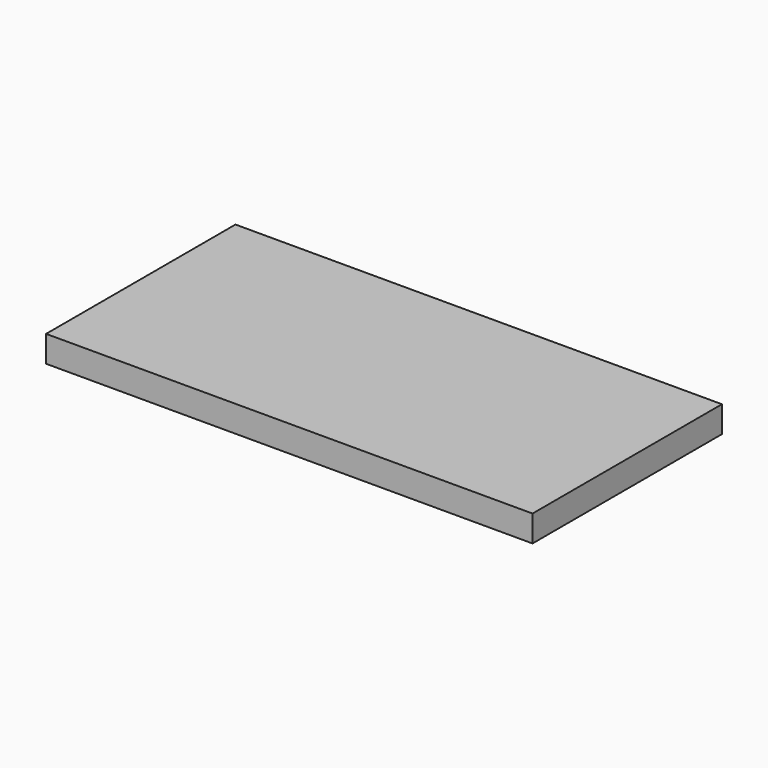
from build123d import *

# Parameters (mm, degrees)
F0_W      = 150
F0_H      = 73
F1_DEPTH  = 8.127
F3_R      = 1.25
F4_DEPTH  = 5
F5_R      = 1.25
F6_DEPTH  = 5
F7_R      = 1.25
F8_DEPTH  = 5
F9_R      = 1.25
F10_DEPTH = 5
F11_R     = 1.25
F12_DEPTH = 5
F13_R     = 1.25
F14_DEPTH = 5
F15_R     = 1.25
F16_DEPTH = 5
F17_R     = 1.25
F18_DEPTH = 5
F19_R     = 1.25
F20_DEPTH = 5
F21_R     = 1.25
F22_DEPTH = 5
F23_R     = 1.25
F24_DEPTH = 5
F25_R     = 1.25
F26_DEPTH = 5
F27_R     = 1.25
F28_DEPTH = 5
F29_R     = 1.25
F30_DEPTH = 5
F31_R     = 1.25
F32_DEPTH = 5
F33_R     = 1.25
F34_DEPTH = 5
F35_R     = 1.25
F36_DEPTH = 5
F37_R     = 1.25
F38_DEPTH = 5
F39_R     = 1.25
F40_DEPTH = 5
F41_R     = 1.25
F42_DEPTH = 5
F43_R     = 1.25
F44_DEPTH = 5
F45_R     = 1.25
F46_DEPTH = 5
F47_R     = 1.25
F48_DEPTH = 5
F2_W      = 136
F2_H      = 63
F49_DEPTH = 5.127
F50_W     = 2.5
F50_H     = 63
F51_DEPTH = 4.873
F52_W     = 6.5
F52_H     = 0.623
F53_DEPTH = 2.5
F54_W     = 2
F54_H     = 63
F55_DEPTH = 0.254
F56_W     = 2
F56_H     = 63
F57_DEPTH = 0.254
F58_R     = 2.05
F59_DEPTH = 5
F60_R     = 2.05
F61_DEPTH = 5
F62_W     = 4.1
F62_H     = 2.304
F63_DEPTH = 5
F64_W     = 4.1
F64_H     = 2.304
F65_DEPTH = 5
F66_R     = 1.25
F67_DEPTH = 2.5


with BuildPart() as f1:
    # F0 (on Top) → F1 (new body)
    with BuildSketch(Plane.XY):
        with Locations((75, 36.5)):
            Rectangle(F0_W, F0_H)
    extrude(amount=F1_DEPTH)

    # F3 (on face) → F4 (cut)
    with BuildSketch(Plane(origin=(0, 0, 0), x_dir=(1, 0, 0), z_dir=(0, 0, -1))):
        with Locations((2.5, -2.5)):
            Circle(F3_R)
    extrude(amount=-F4_DEPTH, mode=Mode.SUBTRACT)

    # F5 (on face) → F6 (cut)
    with BuildSketch(Plane(origin=(0, 0, 0), x_dir=(1, 0, 0), z_dir=(0, 0, -1))):
        with Locations((2.5, -22)):
            Circle(F5_R)
    extrude(amount=-F6_DEPTH, mode=Mode.SUBTRACT)

    # F7 (on face) → F8 (cut)
    with BuildSketch(Plane(origin=(0, 0, 0), x_dir=(1, 0, 0), z_dir=(0, 0, -1))):
        with Locations((147.5, -2.5)):
            Circle(F7_R)
    extrude(amount=-F8_DEPTH, mode=Mode.SUBTRACT)

    # F9 (on face) → F10 (cut)
    with BuildSketch(Plane(origin=(0, 0, 0), x_dir=(1, 0, 0), z_dir=(0, 0, -1))):
        with Locations((147.5, -22)):
            Circle(F9_R)
    extrude(amount=-F10_DEPTH, mode=Mode.SUBTRACT)

    # F11 (on face) → F12 (cut)
    with BuildSketch(Plane(origin=(0, 0, 0), x_dir=(1, 0, 0), z_dir=(0, 0, -1))):
        with Locations((2.5, -38.5)):
            Circle(F11_R)
    extrude(amount=-F12_DEPTH, mode=Mode.SUBTRACT)

    # F13 (on face) → F14 (cut)
    with BuildSketch(Plane(origin=(0, 0, 0), x_dir=(1, 0, 0), z_dir=(0, 0, -1))):
        with Locations((147.5, -38.5)):
            Circle(F13_R)
    extrude(amount=-F14_DEPTH, mode=Mode.SUBTRACT)

    # F15 (on face) → F16 (cut)
    with BuildSketch(Plane(origin=(0, 0, 0), x_dir=(1, 0, 0), z_dir=(0, 0, -1))):
        with Locations((2.5, -55)):
            Circle(F15_R)
    extrude(amount=-F16_DEPTH, mode=Mode.SUBTRACT)

    # F17 (on face) → F18 (cut)
    with BuildSketch(Plane(origin=(0, 0, 0), x_dir=(1, 0, 0), z_dir=(0, 0, -1))):
        with Locations((147.5, -55)):
            Circle(F17_R)
    extrude(amount=-F18_DEPTH, mode=Mode.SUBTRACT)

    # F19 (on face) → F20 (cut)
    with BuildSketch(Plane(origin=(0, 0, 0), x_dir=(1, 0, 0), z_dir=(0, 0, -1))):
        with Locations((2.5, -70.5)):
            Circle(F19_R)
    extrude(amount=-F20_DEPTH, mode=Mode.SUBTRACT)

    # F21 (on face) → F22 (cut)
    with BuildSketch(Plane(origin=(0, 0, 0), x_dir=(1, 0, 0), z_dir=(0, 0, -1))):
        with Locations((147.5, -70.5)):
            Circle(F21_R)
    extrude(amount=-F22_DEPTH, mode=Mode.SUBTRACT)

    # F23 (on face) → F24 (cut)
    with BuildSketch(Plane(origin=(0, 0, 0), x_dir=(1, 0, 0), z_dir=(0, 0, -1))):
        with Locations((18, -2.5)):
            Circle(F23_R)
    extrude(amount=-F24_DEPTH, mode=Mode.SUBTRACT)

    # F25 (on face) → F26 (cut)
    with BuildSketch(Plane(origin=(0, 0, 0), x_dir=(1, 0, 0), z_dir=(0, 0, -1))):
        with Locations((26.25, -70.5)):
            Circle(F25_R)
    extrude(amount=-F26_DEPTH, mode=Mode.SUBTRACT)

    # F27 (on face) → F28 (cut)
    with BuildSketch(Plane(origin=(0, 0, 0), x_dir=(1, 0, 0), z_dir=(0, 0, -1))):
        with Locations((34.5, -2.5)):
            Circle(F27_R)
    extrude(amount=-F28_DEPTH, mode=Mode.SUBTRACT)

    # F29 (on face) → F30 (cut)
    with BuildSketch(Plane(origin=(0, 0, 0), x_dir=(1, 0, 0), z_dir=(0, 0, -1))):
        with Locations((51, -2.5)):
            Circle(F29_R)
    extrude(amount=-F30_DEPTH, mode=Mode.SUBTRACT)

    # F31 (on face) → F32 (cut)
    with BuildSketch(Plane(origin=(0, 0, 0), x_dir=(1, 0, 0), z_dir=(0, 0, -1))):
        with Locations((51.25, -70.5)):
            Circle(F31_R)
    extrude(amount=-F32_DEPTH, mode=Mode.SUBTRACT)

    # F33 (on face) → F34 (cut)
    with BuildSketch(Plane(origin=(0, 0, 0), x_dir=(1, 0, 0), z_dir=(0, 0, -1))):
        with Locations((67.5, -2.5)):
            Circle(F33_R)
    extrude(amount=-F34_DEPTH, mode=Mode.SUBTRACT)

    # F35 (on face) → F36 (cut)
    with BuildSketch(Plane(origin=(0, 0, 0), x_dir=(1, 0, 0), z_dir=(0, 0, -1))):
        with Locations((76.25, -70.5)):
            Circle(F35_R)
    extrude(amount=-F36_DEPTH, mode=Mode.SUBTRACT)

    # F37 (on face) → F38 (cut)
    with BuildSketch(Plane(origin=(0, 0, 0), x_dir=(1, 0, 0), z_dir=(0, 0, -1))):
        with Locations((82.5, -2.5)):
            Circle(F37_R)
    extrude(amount=-F38_DEPTH, mode=Mode.SUBTRACT)

    # F39 (on face) → F40 (cut)
    with BuildSketch(Plane(origin=(0, 0, 0), x_dir=(1, 0, 0), z_dir=(0, 0, -1))):
        with Locations((99, -2.5)):
            Circle(F39_R)
    extrude(amount=-F40_DEPTH, mode=Mode.SUBTRACT)

    # F41 (on face) → F42 (cut)
    with BuildSketch(Plane(origin=(0, 0, 0), x_dir=(1, 0, 0), z_dir=(0, 0, -1))):
        with Locations((101.25, -70.5)):
            Circle(F41_R)
    extrude(amount=-F42_DEPTH, mode=Mode.SUBTRACT)

    # F43 (on face) → F44 (cut)
    with BuildSketch(Plane(origin=(0, 0, 0), x_dir=(1, 0, 0), z_dir=(0, 0, -1))):
        with Locations((115.5, -2.5)):
            Circle(F43_R)
    extrude(amount=-F44_DEPTH, mode=Mode.SUBTRACT)

    # F45 (on face) → F46 (cut)
    with BuildSketch(Plane(origin=(0, 0, 0), x_dir=(1, 0, 0), z_dir=(0, 0, -1))):
        with Locations((126.25, -70.5)):
            Circle(F45_R)
    extrude(amount=-F46_DEPTH, mode=Mode.SUBTRACT)

    # F47 (on face) → F48 (cut)
    with BuildSketch(Plane(origin=(0, 0, 0), x_dir=(1, 0, 0), z_dir=(0, 0, -1))):
        with Locations((132, -2.5)):
            Circle(F47_R)
    extrude(amount=-F48_DEPTH, mode=Mode.SUBTRACT)

    # F2 (on Top) → F49 (cut)
    with BuildSketch(Plane.XY):
        with Locations((75, 36.5)):
            Rectangle(F2_W, F2_H)
    extrude(amount=F49_DEPTH, mode=Mode.SUBTRACT)

    # F50 (on face) → F51 (join)
    with BuildSketch(Plane(origin=(0, 0, 5.127), x_dir=(1, 0, 0), z_dir=(0, 0, -1))):
        with Locations((75, -36.5)):
            Rectangle(F50_W, F50_H)
    extrude(amount=F51_DEPTH)

    # F52 (on face) → F53 (cut)
    with BuildSketch(Plane.YZ.offset(76.25)):
        with Locations((36.5, 0.5655)):
            Rectangle(F52_W, F52_H)
    extrude(amount=-F53_DEPTH, mode=Mode.SUBTRACT)

    # F54 (on face) → F55 (cut)
    with BuildSketch(Plane(origin=(0, 0, 0), x_dir=(1, 0, 0), z_dir=(0, 0, -1))):
        with Locations((6, -36.5)):
            Rectangle(F54_W, F54_H)
    extrude(amount=-F55_DEPTH, mode=Mode.SUBTRACT)

    # F56 (on face) → F57 (cut)
    with BuildSketch(Plane(origin=(0, 0, 0), x_dir=(1, 0, 0), z_dir=(0, 0, -1))):
        with Locations((144, -36.5)):
            Rectangle(F56_W, F56_H)
    extrude(amount=-F57_DEPTH, mode=Mode.SUBTRACT)

    # F58 (on face) → F59 (cut)
    with BuildSketch(Plane(origin=(0, 73, 0), x_dir=(-1, 0, 0), z_dir=(0, 1, 0))):
        with Locations((-42.4, 2.304)):
            Circle(F58_R)
    extrude(amount=-F59_DEPTH, mode=Mode.SUBTRACT)

    # F60 (on face) → F61 (cut)
    with BuildSketch(Plane(origin=(0, 73, 0), x_dir=(-1, 0, 0), z_dir=(0, 1, 0))):
        with Locations((-107.6, 2.304)):
            Circle(F60_R)
    extrude(amount=-F61_DEPTH, mode=Mode.SUBTRACT)

    # F62 (on face) → F63 (cut)
    with BuildSketch(Plane(origin=(0, 73, 0), x_dir=(-1, 0, 0), z_dir=(0, 1, 0))):
        with Locations((-107.6, 1.152)):
            Rectangle(F62_W, F62_H)
    extrude(amount=-F63_DEPTH, mode=Mode.SUBTRACT)

    # F64 (on face) → F65 (cut)
    with BuildSketch(Plane(origin=(0, 73, 0), x_dir=(-1, 0, 0), z_dir=(0, 1, 0))):
        with Locations((-42.4, 1.152)):
            Rectangle(F64_W, F64_H)
    extrude(amount=-F65_DEPTH, mode=Mode.SUBTRACT)

    # F66 (on face) → F67 (cut)
    with BuildSketch(Plane(origin=(0, 73, 0), x_dir=(-1, 0, 0), z_dir=(0, 1, 0))):
        with Locations((-38.1, 6.077)):
            Circle(F66_R)
        with Locations((-46.7, 6.077)):
            Circle(F66_R)
        with Locations((-111.9, 6.077)):
            Circle(F66_R)
        with Locations((-103.3, 6.077)):
            Circle(F66_R)
    extrude(amount=-F67_DEPTH, mode=Mode.SUBTRACT)


solid = f1.part
